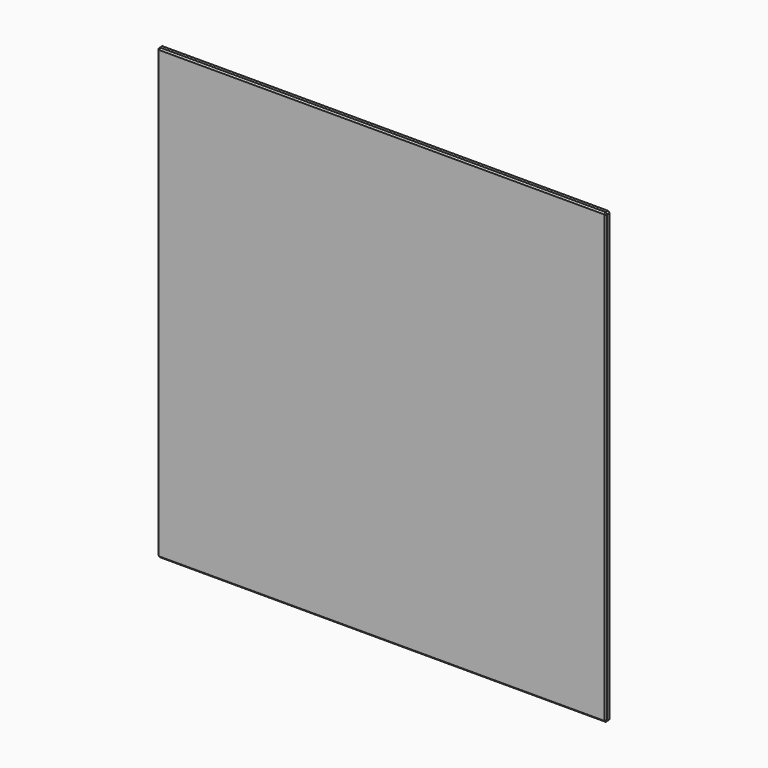
from build123d import *

# Parameters (mm, degrees)
F0_W     = 300
F0_H     = 300
F1_DEPTH = 4
F2_SIZE  = 1
F3_SIZE  = 1


with BuildPart() as f1:
    # F0 (on Front) → F1 (new body)
    with BuildSketch(Plane.XZ):
        with Locations((-112.1514305472, 120.2112711966)):
            Rectangle(F0_W, F0_H)
    extrude(amount=F1_DEPTH)

    # F2
    f2_edges = [f1.edges().sort_by_distance(p)[0] for p in [
        (-262.151431, -2, 270.211271),
        (37.848569, -2, 270.211271),
        (37.848569, -2, -29.788729),
        (-262.151431, -2, -29.788729),
    ]]
    chamfer(f2_edges, length=F2_SIZE)

    # F3
    f3_edges = [f1.edges().sort_by_distance(p)[0] for p in [
        (-112.151431, -4, -29.788729),
        (-261.651431, -4, -29.288729),
        (-262.151431, -4, 120.211271),
        (37.348569, -4, -29.288729),
        (37.848569, -4, 120.211271),
        (37.848569, 0, 120.211271),
        (37.348569, 0, -29.288729),
        (-112.151431, 0, -29.788729),
        (-261.651431, 0, -29.288729),
        (-262.151431, 0, 120.211271),
        (-261.651431, -4, 269.711271),
        (-261.651431, 0, 269.711271),
        (-112.151431, 0, 270.211271),
        (-112.151431, -4, 270.211271),
        (37.348569, -4, 269.711271),
        (37.348569, 0, 269.711271),
    ]]
    chamfer(f3_edges, length=F3_SIZE)


solid = f1.part
